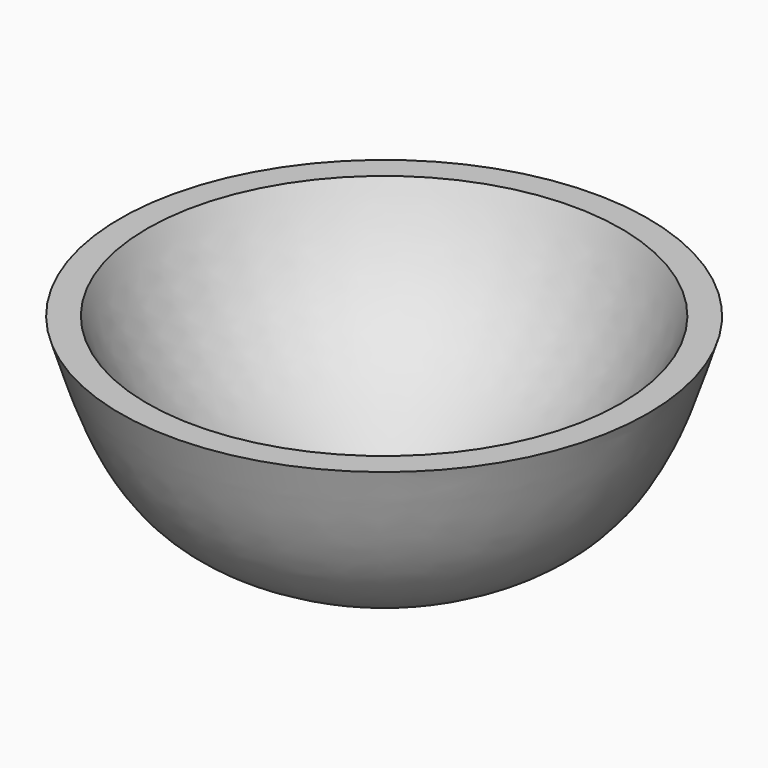
from build123d import *


with BuildPart() as f1:
    # F0 (on Front) → F1 (revolve)
    with BuildSketch(Plane.XZ):
        with BuildLine():
            Line((0, 6.35), (0, 0))
            add(Edge.make_bspline(
                [(0, 0), (15.234207067, 5.5706637015), (51.1244492994, 13.6098969916), (58.5735670269, 45.7742066761), (61.8160240156, 55.323699932)],
                knots=[0, 0, 0, 0, 0.5347260619, 1, 1, 1, 1], degree=3))
            Line((61.8160240156, 55.323699932), (55.4660240156, 55.323699932))
            add(Edge.make_bspline(
                [(0, 6.35), (15.1735683359, 13.6681503053), (41.4494564192, 27.1469080661), (51.6769187714, 46.460018861), (55.4660240156, 55.323699932)],
                knots=[0, 0, 0, 0, 0.5553078144, 1, 1, 1, 1], degree=3))
        make_face()
    revolve(axis=Axis((0, 0, 3.175), (0, 0, 1)))


solid = f1.part
